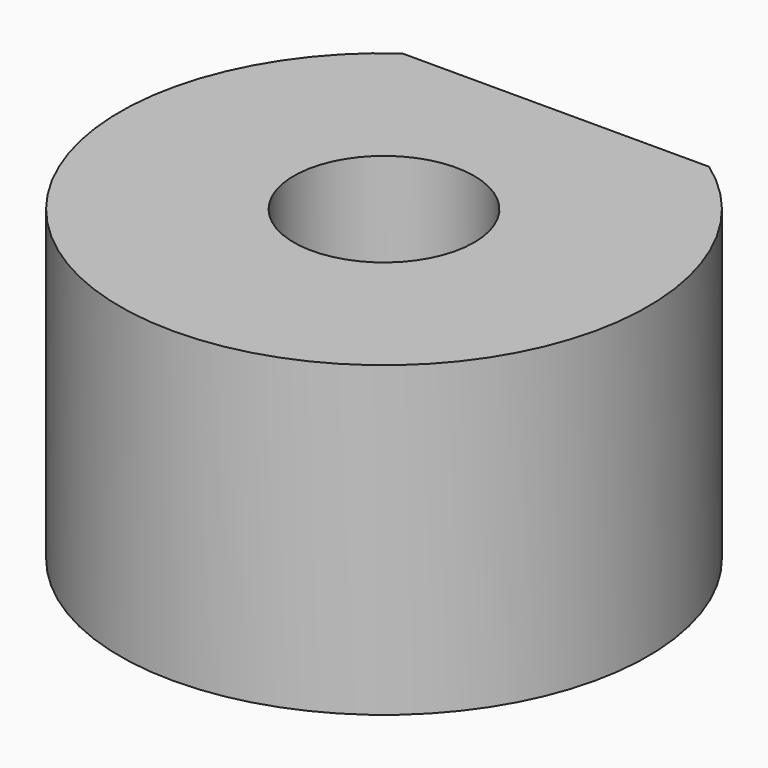
from build123d import *

# Parameters (mm, degrees)
F0_R     = 6
F0_R_2   = 2.05
F1_DEPTH = 7
F3_DEPTH = 7.001
F4_R     = 1.1
F5_DEPTH = 4


with BuildPart() as f1:
    # F0 (on Top) → F1 (new body)
    with BuildSketch(Plane.XY):
        Circle(F0_R)
        Circle(F0_R_2, mode=Mode.SUBTRACT)
    extrude(amount=F1_DEPTH)

    # F2 (on face) → F3 (cut, through all)
    with BuildSketch(Plane.XY.offset(7)):
        with BuildLine():
            ThreePointArc((3.490318, 4.880336), (0, 6), (-3.490318, 4.880336))
            Line((-3.490318, 4.880336), (3.490318, 4.880336))
        make_face()
    extrude(amount=-F3_DEPTH, mode=Mode.SUBTRACT)

    # F4 (on face) → F5 (cut)
    with BuildSketch(Plane(origin=(0, 4.880336, 0), x_dir=(-1, 0, 0), z_dir=(0, 1, 0))):
        with Locations((0, 3.5)):
            Circle(F4_R)
    extrude(amount=-F5_DEPTH, mode=Mode.SUBTRACT)


solid = f1.part
